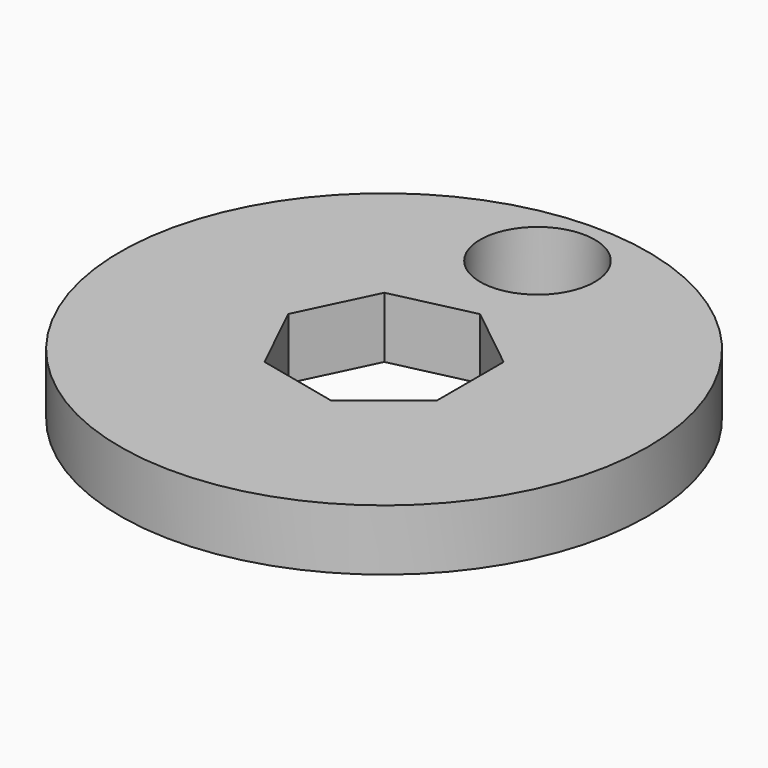
from build123d import *

# Parameters (mm, degrees)
F0_R     = 110
F0_R_2   = 23.874977
F1_DEPTH = 25.4


with BuildPart() as f1:
    # F0 (on Top) → F1 (new body)
    with BuildSketch(Plane.XY):
        Circle(F0_R)
        Polygon((8.879913, 38.905439), (35.954032, 17.314549), (35.954032, -17.314549), (8.879913, -38.905439), (-24.880962, -31.19974), (-39.905965, 0), (-24.880962, 31.19974), align=None, mode=Mode.SUBTRACT)
        with Locations((0, 79.918548)):
            Circle(F0_R_2, mode=Mode.SUBTRACT)
    extrude(amount=F1_DEPTH)


solid = f1.part
